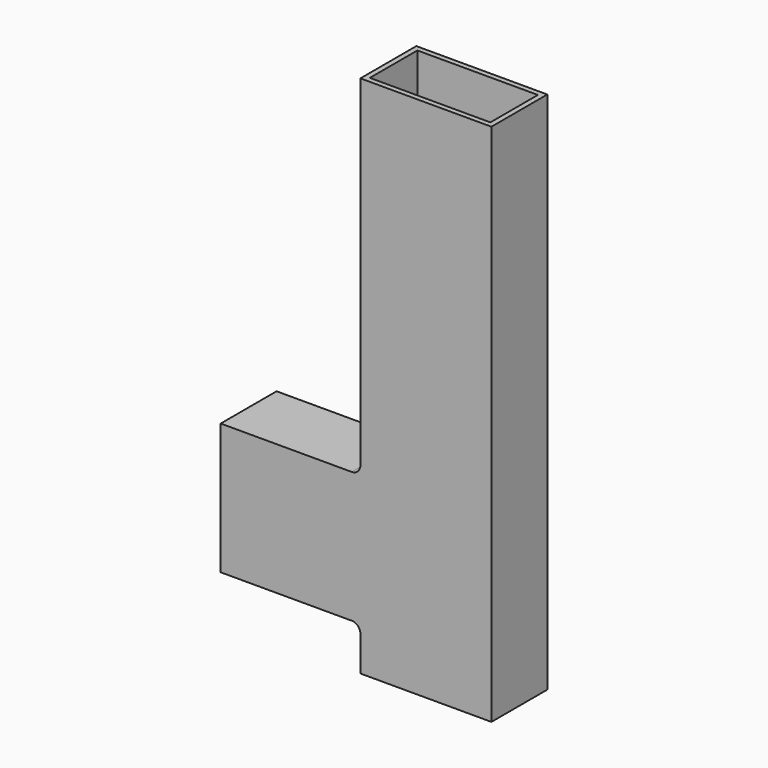
from build123d import *

# Parameters (mm, degrees)
F0_W     = 75
F0_H     = 40
F0_W_2   = 69
F0_H_2   = 34
F1_DEPTH = 300
F2_W     = 40
F2_H     = 75
F2_W_2   = 34
F2_H_2   = 69
F3_DEPTH = 80
F4_R     = 5


with BuildPart() as f1:
    # F0 (on Top) → F1 (new body)
    with BuildSketch(Plane.XY):
        with Locations((-37.5, 20)):
            Rectangle(F0_W, F0_H)
        with Locations((-37.5, 20)):
            Rectangle(F0_W_2, F0_H_2, mode=Mode.SUBTRACT)
    extrude(amount=F1_DEPTH)

    # F2 (on face) → F3 (join)
    with BuildSketch(Plane(origin=(-75, 0, 0), x_dir=(0, -1, 0), z_dir=(-1, 0, 0))):
        with Locations((-20, 62.5)):
            Rectangle(F2_W, F2_H)
        with Locations((-20, 62.5)):
            Rectangle(F2_W_2, F2_H_2, mode=Mode.SUBTRACT)
    extrude(amount=F3_DEPTH)

    # F4
    f4_edges = [f1.edges().sort_by_distance(p)[0] for p in [
        (-75, 20, 100),
        (-75, 20, 25),
    ]]
    fillet(f4_edges, radius=F4_R)


solid = f1.part
